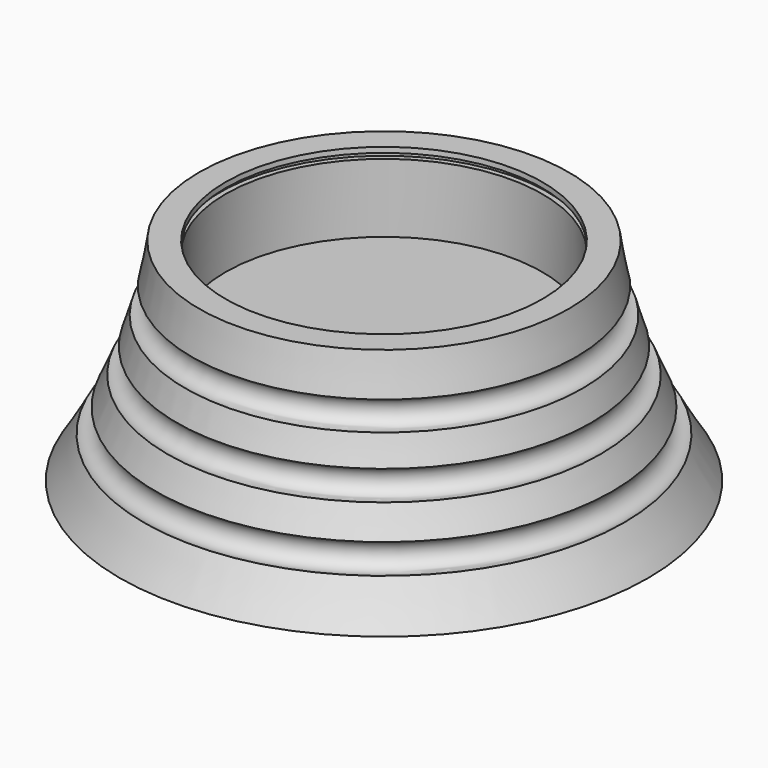
from build123d import *


with BuildPart() as f1:
    # F0 (on Front) → F1 (revolve)
    with BuildSketch(Plane.XZ):
        with BuildLine():
            Line((0, 25), (0, 0))
            Line((0, 0), (50, 0))
            ThreePointArc((50, 0), (47.640621, 3.835208), (45.456284, 7.77274))
            ThreePointArc((45.456284, 7.77274), (42.079525, 8.89245), (43.241357, 12.254949))
            ThreePointArc((43.241357, 12.254949), (42.04391, 14.941737), (40.926005, 17.662583))
            ThreePointArc((40.926005, 17.662583), (37.690848, 19.14245), (39.211039, 22.358856))
            ThreePointArc((39.211039, 22.358856), (38.373665, 24.95984), (37.607667, 27.582731))
            ThreePointArc((37.607667, 27.582731), (34.544798, 29.39245), (36.392662, 32.432458))
            ThreePointArc((36.392662, 32.432458), (35.623517, 36.202829), (35, 40))
            Line((35, 40), (30, 40))
            Line((30, 40), (30, 39))
            Line((30, 39), (31, 39))
            Line((31, 39), (31, 38))
            Line((31, 38), (30, 38))
            Line((30, 38), (30, 25))
            Line((30, 25), (0, 25))
        make_face()
    revolve(axis=Axis((0, 0, 12.5), (0, 0, 1)))


solid = f1.part
